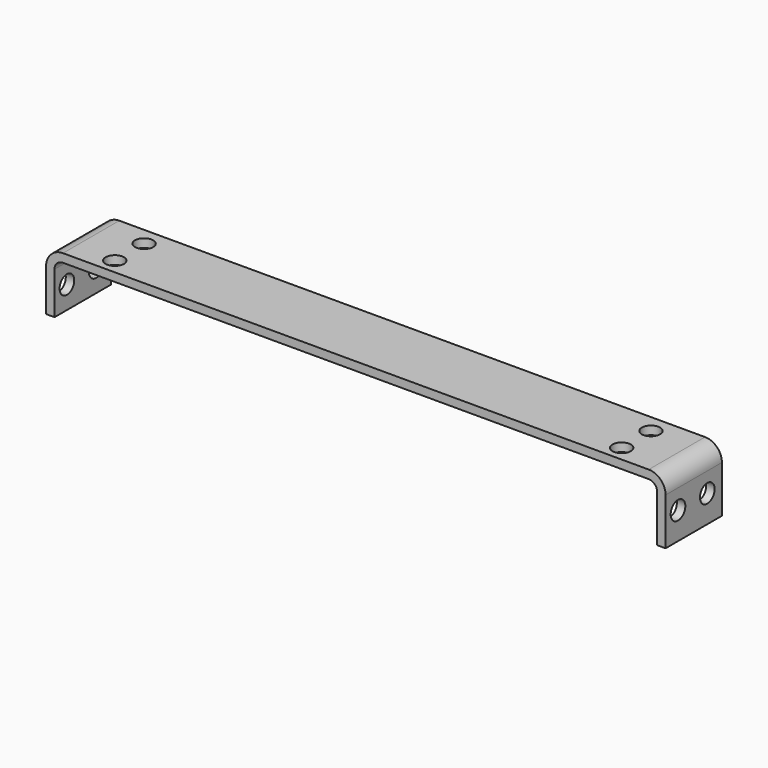
from build123d import *

# Parameters (mm, degrees)
F0_W     = 3
F0_H     = 18
F0_H_2   = 19.675914
F1_DEPTH = 25
F4_D     = 6.5
F5_D     = 6.5
F6_R     = 3
F7_R     = 6


with BuildPart() as f1:
    # F0 (on Front) → F1 (new body)
    with BuildSketch(Plane.XZ):
        Polygon((110, 1.5), (-110, 1.5), (-110, -1.5), (-107, -1.5), (107, -1.5), (110, -1.5), align=None)
        with Locations((-108.5, -10.5)):
            Rectangle(F0_W, F0_H)
        with Locations((108.5, -11.337957)):
            Rectangle(F0_W, F0_H_2)
    extrude(amount=F1_DEPTH)

    # F4 (through all)
    with Locations(Plane.XY.offset(1.5)):
        with Locations((-90, -19.5), (-90, -6.5), (90, -6.5), (90, -19.5)):
            Hole(F4_D / 2)

    # F5 (through all)
    with Locations(Plane(origin=(-110, 0, 0), x_dir=(0, -1, 0), z_dir=(-1, 0, 0))):
        with Locations((19.5, -11.5), (6.5, -11.5)):
            Hole(F5_D / 2)

    # F6
    f6_edges = [f1.edges().sort_by_distance(p)[0] for p in [
        (-107, -12.5, -1.5),
        (107, -12.5, -1.5),
    ]]
    fillet(f6_edges, radius=F6_R)

    # F7
    f7_edges = [f1.edges().sort_by_distance(p)[0] for p in [
        (-110, -12.5, 1.5),
        (110, -12.5, 1.5),
    ]]
    fillet(f7_edges, radius=F7_R)


solid = f1.part
